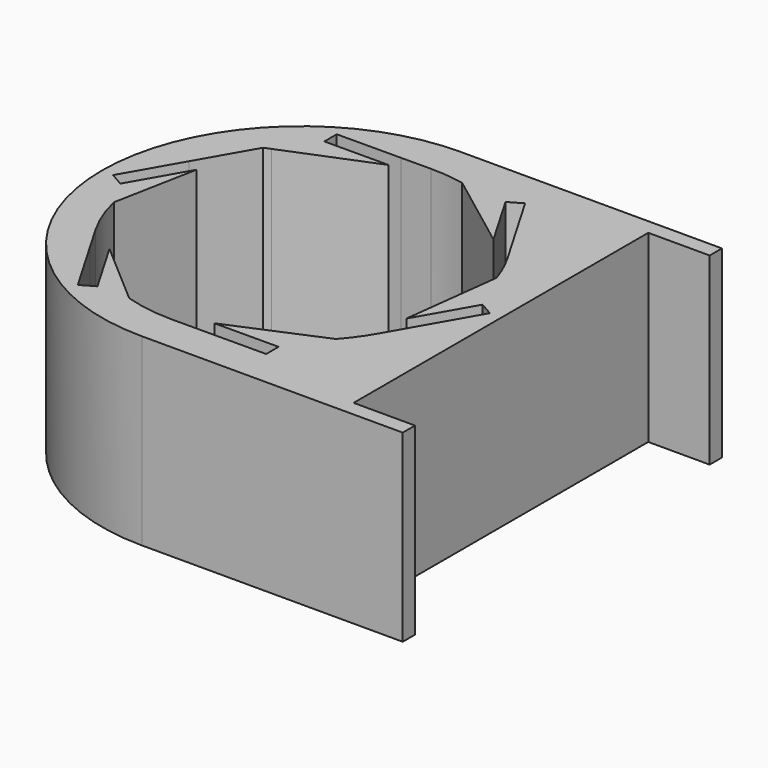
from build123d import *

# Parameters (mm, degrees)
F0_W     = 25.4
F0_H     = 6.35
F1_DEPTH = 76.2


with BuildPart() as f1:
    # F0 (on Top) → F1 (new body)
    with BuildSketch(Plane.XY):
        with BuildLine():
            Line((-59.001676, 16.708527), (-65.625166, -17.731992))
            ThreePointArc((-65.625166, -17.731992), (-62.610675, -27.475337), (-58.158692, -36.651379))
            Line((-58.158692, -36.651379), (-51.91899, -47.360879))
            Line((-51.91899, -47.360879), (-38.595098, -70.229316))
            Line((-38.595098, -70.229316), (-33.042589, -66.994244))
            Line((-33.042589, -66.994244), (-46.366481, -44.125807))
            Line((-46.366481, -44.125807), (-19.851861, -67.082177))
            ThreePointArc((-19.851861, -67.082177), (-9.906632, -69.343224), (0.266045, -70.075714))
            Line((0.266045, -70.075714), (12.660595, -70.026724))
            Line((12.660595, -70.026724), (39.127188, -69.922113))
            Line((39.127188, -69.922113), (39.101789, -63.495963))
            Line((39.101789, -63.495963), (12.635195, -63.600574))
            Line((12.635195, -63.600574), (50.140487, -47.67245))
            ThreePointArc((50.140487, -47.67245), (54.585349, -42.149939), (58.424737, -36.190575))
            Line((58.424737, -36.190575), (64.579585, -25.432085))
            Line((64.579585, -25.432085), (77.722286, -2.459037))
            Line((77.722286, -2.459037), (72.144377, 0.732041))
            Line((72.144377, 0.732041), (59.001676, -22.241007))
            Line((59.001676, -22.241007), (63.960162, 18.20359))
            ThreePointArc((63.960162, 18.20359), (61.399959, 24.814209), (58.158692, 31.118899))
            Line((58.158692, 31.118899), (51.91899, 41.828399))
            Line((51.91899, 41.828399), (38.595098, 64.696835))
            Line((38.595098, 64.696835), (33.042589, 61.461764))
            Line((33.042589, 61.461764), (46.366481, 38.593327))
            Line((46.366481, 38.593327), (13.830063, 63.10762))
            ThreePointArc((13.830063, 63.10762), (6.819889, 64.197371), (-0.266045, 64.543234))
            Line((-0.266045, 64.543234), (-12.635195, 64.494344))
            Line((-12.635195, 64.494344), (-39.127188, 64.389633))
            Line((-39.127188, 64.389633), (-39.101789, 57.963483))
            Line((-39.101789, 57.963483), (-12.635195, 58.068094))
            Line((-12.635195, 58.068094), (-49.124348, 43.24935))
            ThreePointArc((-49.124348, 43.24935), (-49.635517, 42.697499), (-50.140487, 42.13997))
            Line((-50.140487, 42.13997), (-51.856047, 42.13997))
            Line((-51.856047, 42.13997), (-64.579585, 19.899605))
            Line((-64.579585, 19.899605), (-77.722286, -3.073443))
            Line((-77.722286, -3.073443), (-72.144377, -6.264521))
            Line((-72.144377, -6.264521), (-59.001676, 16.708527))
        make_face()
        with BuildLine():
            Line((82.55, 79.78376), (0, 79.78376))
            ThreePointArc((0, 79.78376), (-82.55, -2.76624), (0, -85.31624))
            Line((0, -85.31624), (82.55, -85.31624))
            Line((82.55, -85.31624), (82.55, -78.96624))
            Line((82.55, -78.96624), (82.55, 73.43376))
            Line((82.55, 73.43376), (82.55, 79.78376))
        make_face()
        with BuildLine():
            ThreePointArc((-58.158692, -36.651379), (-62.610675, -27.475337), (-65.625166, -17.731992))
            Line((-65.625166, -17.731992), (-59.001676, 16.708527))
            Line((-59.001676, 16.708527), (-72.144377, -6.264521))
            Line((-72.144377, -6.264521), (-77.722286, -3.073443))
            Line((-77.722286, -3.073443), (-64.579585, 19.899605))
            Line((-64.579585, 19.899605), (-51.856047, 42.13997))
            Line((-51.856047, 42.13997), (-49.124348, 43.24935))
            Line((-49.124348, 43.24935), (-12.635195, 58.068094))
            Line((-12.635195, 58.068094), (-39.101789, 57.963483))
            Line((-39.101789, 57.963483), (-39.127188, 64.389633))
            Line((-39.127188, 64.389633), (-12.635195, 64.494344))
            Line((-12.635195, 64.494344), (-0.266045, 64.543234))
            ThreePointArc((-0.266045, 64.543234), (6.819889, 64.197371), (13.830063, 63.10762))
            Line((13.830063, 63.10762), (46.366481, 38.593327))
            Line((46.366481, 38.593327), (33.042589, 61.461764))
            Line((33.042589, 61.461764), (38.595098, 64.696835))
            Line((38.595098, 64.696835), (51.91899, 41.828399))
            Line((51.91899, 41.828399), (58.158692, 31.118899))
            ThreePointArc((58.158692, 31.118899), (61.399959, 24.814209), (63.960162, 18.20359))
            Line((63.960162, 18.20359), (59.001676, -22.241007))
            Line((59.001676, -22.241007), (72.144377, 0.732041))
            Line((72.144377, 0.732041), (77.722286, -2.459037))
            Line((77.722286, -2.459037), (64.579585, -25.432085))
            Line((64.579585, -25.432085), (58.424737, -36.190575))
            ThreePointArc((58.424737, -36.190575), (54.585349, -42.149939), (50.140487, -47.67245))
            Line((50.140487, -47.67245), (12.635195, -63.600574))
            Line((12.635195, -63.600574), (39.101789, -63.495963))
            Line((39.101789, -63.495963), (39.127188, -69.922113))
            Line((39.127188, -69.922113), (12.660595, -70.026724))
            Line((12.660595, -70.026724), (0.266045, -70.075714))
            ThreePointArc((0.266045, -70.075714), (-9.906632, -69.343224), (-19.851861, -67.082177))
            Line((-19.851861, -67.082177), (-46.366481, -44.125807))
            Line((-46.366481, -44.125807), (-33.042589, -66.994244))
            Line((-33.042589, -66.994244), (-38.595098, -70.229316))
            Line((-38.595098, -70.229316), (-51.91899, -47.360879))
            Line((-51.91899, -47.360879), (-58.158692, -36.651379))
        make_face(mode=Mode.SUBTRACT)
        with Locations((95.25, 76.60876)):
            Rectangle(F0_W, F0_H)
        with Locations((95.25, -82.14124)):
            Rectangle(F0_W, F0_H)
    extrude(amount=F1_DEPTH)


solid = f1.part
